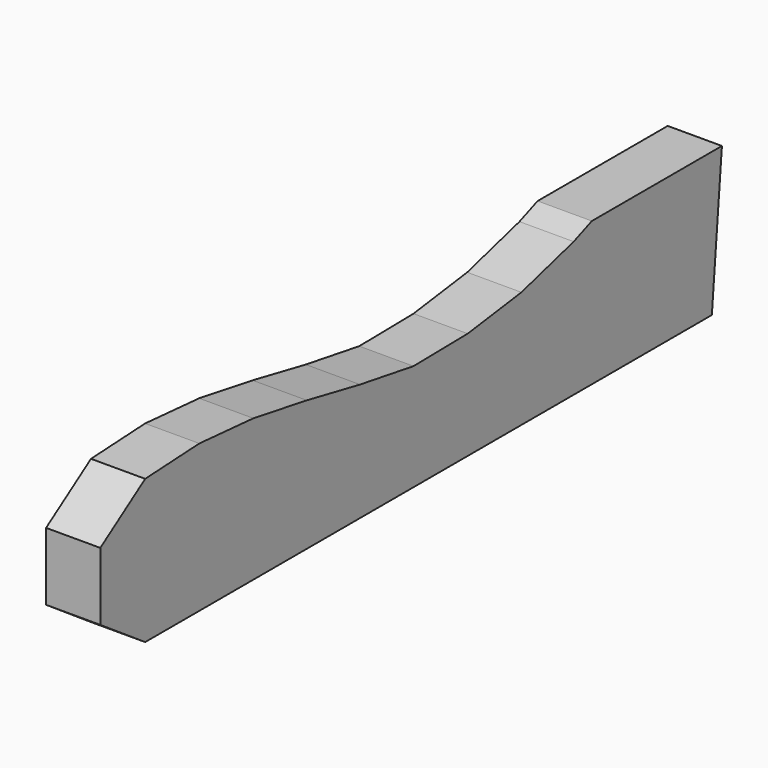
from build123d import *

# Parameters (mm, degrees)
F1_DEPTH = 38.1


with BuildPart() as f1:
    # F0 (on Right) → F1 (new body)
    with BuildSketch(Plane.YZ):
        Polygon((-115.914622, 26.696045), (-76.475278, 0), (421.347528, 0), (430.185378, 101.01709), (315.885378, 101.01709), (299.946415, 94.747165), (254.043802, 82.055013), (206.850407, 75.657818), (159.231294, 74.909015), (112.23541, 82.624419), (65.514684, 91.861), (18.560654, 99.827159), (-28.91806, 103.55709), (-76.475278, 101.01709), (-115.914622, 74.321045), align=None)
    extrude(amount=F1_DEPTH)


solid = f1.part
